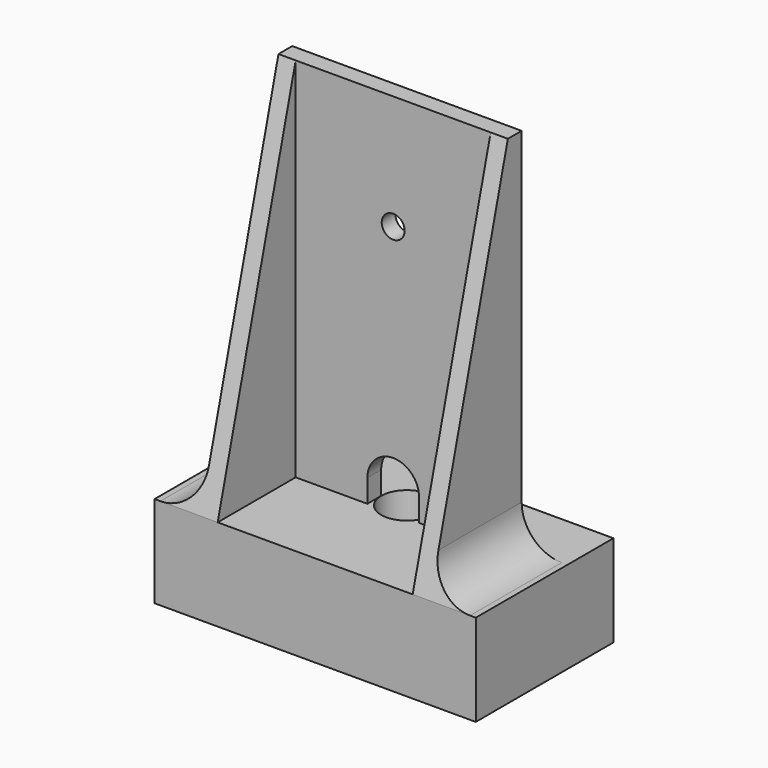
from build123d import *

# Parameters (mm, degrees)
F0_W      = 28
F0_H      = 40
F1_DEPTH  = 10
F2_W      = 4
F2_H      = 10
F2_W_2    = 17
F2_H_2    = 8.5
F3_DEPTH  = 32
F5_DEPTH  = 24.001
F6_W      = 28
F6_H      = 8
F7_DEPTH  = 5
F8_R      = 1
F9_DEPTH  = 10.001
F10_R     = 2.25
F11_DEPTH = 9
F13_DEPTH = 10.001
F14_R     = 3.5


with BuildPart() as f1:
    # F0 (on Front) → F1 (new body)
    with BuildSketch(Plane.XZ):
        with Locations((0, 20)):
            Rectangle(F0_W, F0_H)
    extrude(amount=F1_DEPTH)

    # F2 (on face) → F3 (cut)
    with BuildSketch(Plane.XY.offset(40)):
        with Locations((-12, -5)):
            Rectangle(F2_W, F2_H)
        with Locations((12, -5)):
            Rectangle(F2_W, F2_H)
        with Locations((0, -5.75)):
            Rectangle(F2_W_2, F2_H_2)
    extrude(amount=-F3_DEPTH, mode=Mode.SUBTRACT)

    # F4 (on face) → F5 (cut, through all)
    with BuildSketch(Plane(origin=(-10, 0, 0), x_dir=(0, -1, 0), z_dir=(-1, 0, 0))):
        Polygon((1.5, 40), (10, 8), (10, 40), align=None)
    extrude(amount=-F5_DEPTH, mode=Mode.SUBTRACT)

    # F6 (on face) → F7 (join)
    with BuildSketch(Plane(origin=(0, 0, 0), x_dir=(-1, 0, 0), z_dir=(0, 1, 0))):
        with Locations((0, 4)):
            Rectangle(F6_W, F6_H)
    extrude(amount=F7_DEPTH)

    # F8 (on face) → F9 (cut, through all)
    with BuildSketch(Plane(origin=(0, 0, 0), x_dir=(-1, 0, 0), z_dir=(0, 1, 0))):
        with Locations((0, 30)):
            Circle(F8_R)
    extrude(amount=-F9_DEPTH, mode=Mode.SUBTRACT)

    # F10 (on face) → F11 (cut)
    with BuildSketch(Plane(origin=(0, 0, 0), x_dir=(1, 0, 0), z_dir=(0, 0, -1))):
        Circle(F10_R)
    extrude(amount=-F11_DEPTH, mode=Mode.SUBTRACT)

    # F12 (on face) → F13 (cut, through all)
    with BuildSketch(Plane(origin=(0, 0, 0), x_dir=(-1, 0, 0), z_dir=(0, 1, 0))):
        with BuildLine():
            Line((-2.25, 10), (-2.25, 8))
            Line((-2.25, 8), (2.25, 8))
            Line((2.25, 8), (2.25, 10))
            ThreePointArc((2.25, 10), (0, 12.25), (-2.25, 10))
        make_face()
    extrude(amount=-F13_DEPTH, mode=Mode.SUBTRACT)

    # F14
    f14_edges = [f1.edges().sort_by_distance(p)[0] for p in [
        (10, -5, 8),
        (-10, -5, 8),
    ]]
    fillet(f14_edges, radius=F14_R)


solid = f1.part
